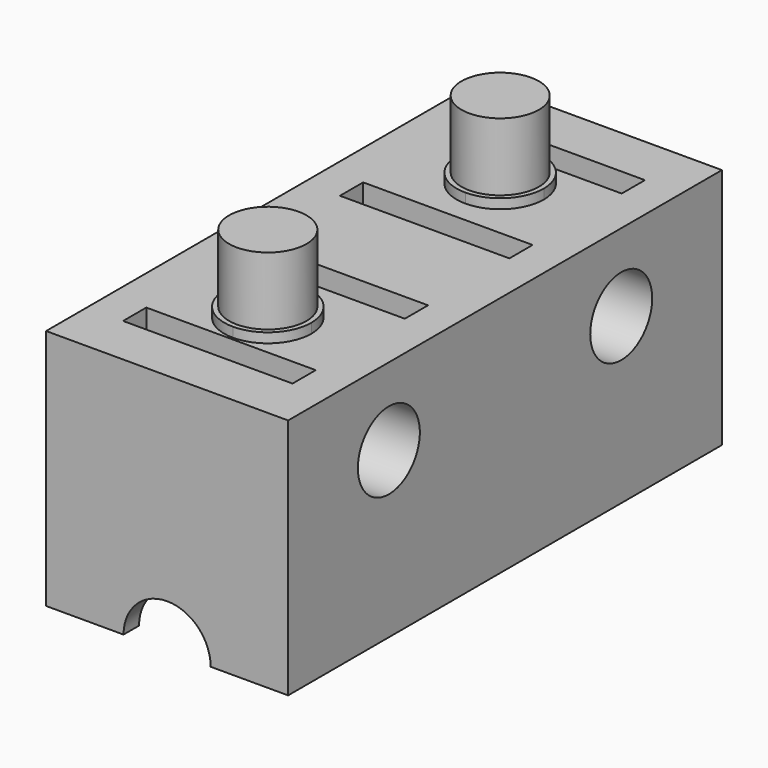
from build123d import *

# Parameters (mm, degrees)
F0_W      = 25
F0_H      = 56
F1_DEPTH  = 25
F4_D      = 15
F5_D      = 8
F5_DEPTH  = 20
F5_TIP    = 2.4034424761
F7_DEPTH  = 1
F8_W      = 25
F8_H      = 2
F9_DEPTH  = 8
F10_W     = 1.25
F10_H     = 3
F11_DEPTH = 26.001
F12_W     = 17.5
F12_H     = 3
F13_DEPTH = 15
F14_R     = 4
F15_R     = 4
F16_DEPTH = 7
F18_D     = 9


with BuildPart() as f1:
    # F0 (on Top) → F1 (new body)
    with BuildSketch(Plane.XY):
        with Locations((12.5, 28)):
            Rectangle(F0_W, F0_H)
    extrude(amount=F1_DEPTH)

    # F4 (through all)
    with Locations(Plane.XZ):
        with Locations((12.5, 0)):
            Hole(F4_D / 2)

    # F5
    with Locations(Plane.YZ.offset(25)):
        with Locations((13, 17), (43, 17)):
            Hole(F5_D / 2, depth=F5_DEPTH)
            with Locations((0, 0, -(F5_DEPTH + F5_TIP / 2))):  # 118° drill point
                Cone(0, F5_D / 2, F5_TIP, mode=Mode.SUBTRACT)

    # F6 (on face) → F7 (join)
    with BuildSketch(Plane.XY.offset(25)):
        with BuildLine():
            ThreePointArc((12.5, 17.5), (8, 13), (12.5, 8.5))
            Line((12.5, 8.5), (12.5, 17.5))
        make_face()
        with BuildLine():
            ThreePointArc((12.5, 47.5), (8, 43), (12.5, 38.5))
            Line((12.5, 38.5), (12.5, 47.5))
        make_face()
        with BuildLine():
            Line((12.5, 47.5), (12.5, 38.5))
            ThreePointArc((12.5, 38.5), (15.6819805153, 39.8180194847), (17, 43))
            ThreePointArc((17, 43), (15.6819805153, 46.1819805153), (12.5, 47.5))
        make_face()
        with BuildLine():
            Line((12.5, 17.5), (12.5, 8.5))
            ThreePointArc((12.5, 8.5), (15.6819805153, 9.8180194847), (17, 13))
            ThreePointArc((17, 13), (15.6819805153, 16.1819805153), (12.5, 17.5))
        make_face()
    extrude(amount=F7_DEPTH)

    # F8 (on face) → F9 (join)
    with BuildSketch(Plane(origin=(0, 0, 0), x_dir=(1, 0, 0), z_dir=(0, 0, -1))):
        with Locations((12.5, -1)):
            Rectangle(F8_W, F8_H)
        with Locations((12.5, -27)):
            Rectangle(F8_W, F8_H)
        with Locations((12.5, -29)):
            Rectangle(F8_W, F8_H)
        with Locations((12.5, -55)):
            Rectangle(F8_W, F8_H)
    extrude(amount=-F9_DEPTH)

    # F10 (on face) → F11 (cut, through all)
    with BuildSketch(Plane(origin=(0, 0, 0), x_dir=(1, 0, 0), z_dir=(0, 0, -1))):
        with Locations((4.375, -6.75)):
            Rectangle(F10_W, F10_H)
        with Locations((20.625, -6.75)):
            Rectangle(F10_W, F10_H)
        with Locations((4.375, -21.25)):
            Rectangle(F10_W, F10_H)
        with Locations((20.625, -21.25)):
            Rectangle(F10_W, F10_H)
        with Locations((20.625, -49.25)):
            Rectangle(F10_W, F10_H)
        with Locations((4.375, -49.25)):
            Rectangle(F10_W, F10_H)
        with Locations((20.625, -34.75)):
            Rectangle(F10_W, F10_H)
        with Locations((4.375, -34.75)):
            Rectangle(F10_W, F10_H)
    extrude(amount=-F11_DEPTH, mode=Mode.SUBTRACT)

    # F12 (on face) → F13 (cut)
    with BuildSketch(Plane.XY.offset(25)):
        with Locations((12.5, 6.75)):
            Rectangle(F12_W, F12_H)
        with Locations((12.5, 21.25)):
            Rectangle(F12_W, F12_H)
        with Locations((12.5, 34.75)):
            Rectangle(F12_W, F12_H)
        with Locations((12.5, 49.25)):
            Rectangle(F12_W, F12_H)
    extrude(amount=-F13_DEPTH, mode=Mode.SUBTRACT)

    # F14 (on face) + F15 (on face) → F16 (join)
    with BuildSketch(Plane.XY.offset(26)):
        with Locations((12.5, 43)):
            Circle(F14_R)
    with BuildSketch(Plane.XY.offset(26)):
        with Locations((12.5, 13)):
            Circle(F15_R)
    extrude(amount=F16_DEPTH)

    # F18 (through all)
    with Locations(Plane.XZ):
        with Locations((12.5, 0)):
            Hole(F18_D / 2)


solid = f1.part
